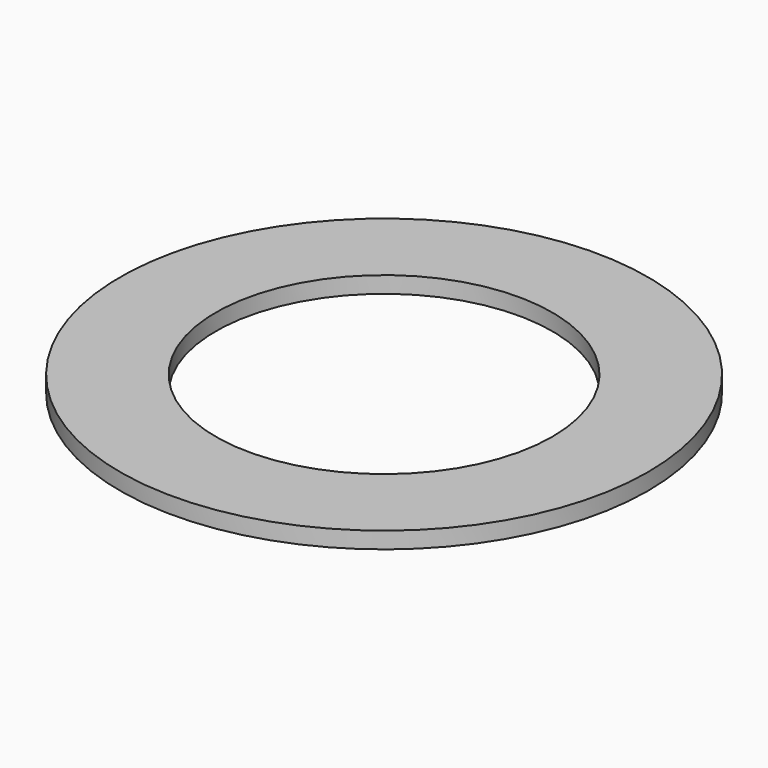
from build123d import *

# Parameters (mm, degrees)
CYLINDER011_R     = 5.1
CYLINDER011_DEPTH = 10
CYLINDER006_R     = 8
CYLINDER006_DEPTH = 0.5


with BuildPart() as cylinder011:
    # Cylinder011 → Cylinder011 (new body)
    with BuildSketch(Plane.XY):
        Circle(CYLINDER011_R)
    extrude(amount=CYLINDER011_DEPTH)


with BuildPart() as small_blue:
    # Cylinder006 → Cylinder006 (new body)
    with BuildSketch(Plane.XY):
        Circle(CYLINDER006_R)
    extrude(amount=CYLINDER006_DEPTH)

    # Cut003: cut Cylinder011
    add(cylinder011.part, mode=Mode.SUBTRACT)


solid = small_blue.part
